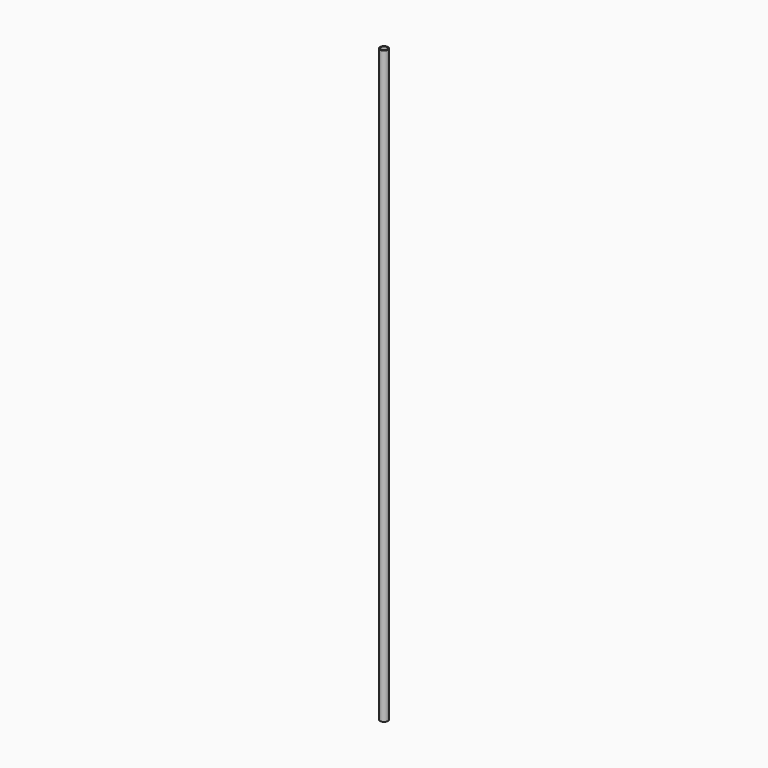
from build123d import *

# Parameters (mm, degrees)
F1_R     = 4.7625
F1_R_2   = 3.8735
F2_DEPTH = 723.899898


with BuildPart() as f2:
    # F1 (on Top) → F2 (new body)
    with BuildSketch(Plane.XY):
        with Locations((127, 0)):
            Circle(F1_R)
        with Locations((127, 0)):
            Circle(F1_R_2, mode=Mode.SUBTRACT)
    extrude(amount=-F2_DEPTH)


solid = f2.part
